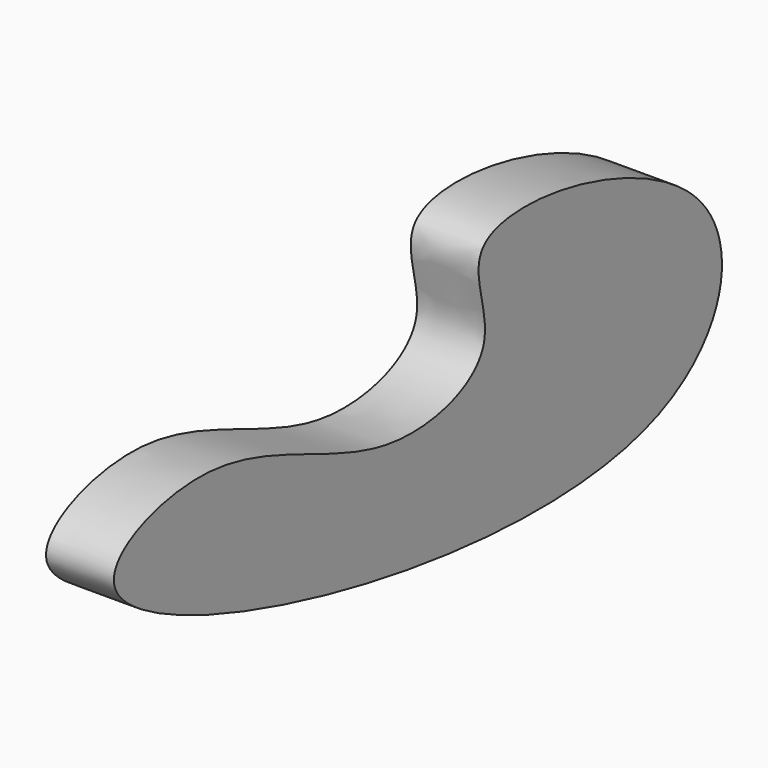
from build123d import *

# Parameters (mm, degrees)
F1_DEPTH = 25.4


with BuildPart() as f1:
    # F0 (on Right) → F1 (new body)
    with BuildSketch(Plane.YZ):
        with BuildLine():
            add(Edge.make_bspline(
                [(0, 0), (-6.7937053057, -7.0051996557), (13.7734571313, -39.4759635018), (-51.738847026, -58.4526235591), (-120.097347081, -8.4706984947), (-233.5437459605, -53.1124643701), (98.2363025764, -136.8136807752), (129.5801771577, -10.2020885312), (12.262858644, 12.6446128123), (0, 0)],
                knots=[0, 0, 0, 0, 0.0894943602, 0.1968378091, 0.3481399153, 0.4555078057, 0.7078314861, 0.8384597743, 1, 1, 1, 1], degree=3))
        make_face()
    extrude(amount=F1_DEPTH)


solid = f1.part
